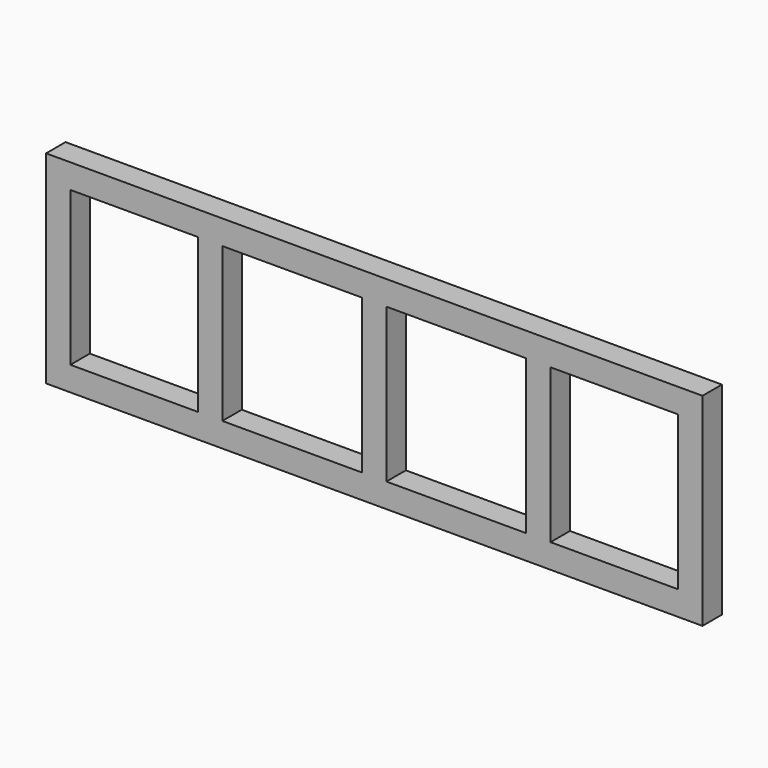
from build123d import *

# Parameters (mm, degrees)
F0_W     = 0.3
F0_H     = 3.8
F0_W_2   = 0.6
F0_H_2   = 0.6
F1_DEPTH = 0.6


with BuildPart() as f1:
    # F0 (on Front) → F1 (new body)
    with BuildSketch(Plane.XZ):
        with Locations((-0.15, 2.5)):
            Rectangle(F0_W, F0_H)
        with Locations((-7.8, 0.3)):
            Rectangle(F0_W_2, F0_H_2)
        with Locations((-7.8, 2.5)):
            Rectangle(F0_W_2, F0_H)
        Polygon((0, 5), (0, 4.4), (0.3, 4.4), (3.75, 4.4), (4.35, 4.4), (7.5, 4.4), (7.5, 5), align=None)
        Polygon((-0.3, 4.4), (0, 4.4), (0, 5), (-7.5, 5), (-7.5, 4.4), (-4.35, 4.4), (-3.75, 4.4), align=None)
        with Locations((0.15, 2.5)):
            Rectangle(F0_W, F0_H)
        with Locations((4.05, 2.5)):
            Rectangle(F0_W_2, F0_H)
        with Locations((7.8, 2.5)):
            Rectangle(F0_W_2, F0_H)
        with Locations((-7.8, 4.7)):
            Rectangle(F0_W_2, F0_H_2)
        Polygon((-7.5, 0), (0, 0), (0, 0.6), (-0.3, 0.6), (-3.75, 0.6), (-4.35, 0.6), (-7.5, 0.6), align=None)
        with Locations((7.8, 0.3)):
            Rectangle(F0_W_2, F0_H_2)
        with Locations((-4.05, 2.5)):
            Rectangle(F0_W_2, F0_H)
        Polygon((0, 0.6), (0, 0), (7.5, 0), (7.5, 0.6), (4.35, 0.6), (3.75, 0.6), (0.3, 0.6), align=None)
        with Locations((7.8, 4.7)):
            Rectangle(F0_W_2, F0_H_2)
    extrude(amount=F1_DEPTH)


solid = f1.part
